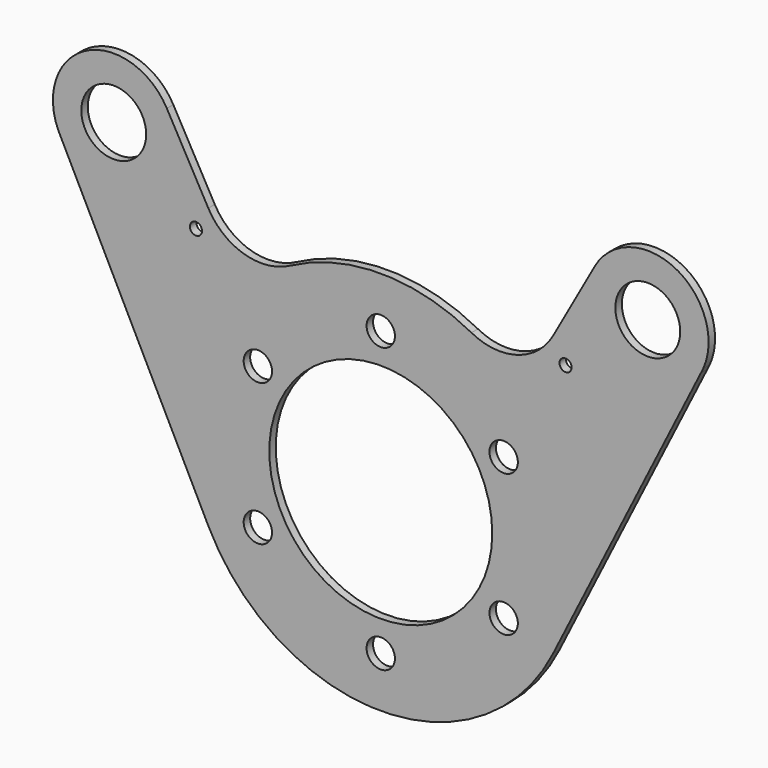
from build123d import *

# Parameters (mm, degrees)
F2_R     = 3.5
F2_R_2   = 27.5
F2_R_3   = 1.5
F2_R_4   = 8
F3_DEPTH = 2


with BuildPart() as f3:
    # F2 (on Front) → F3 (new body)
    with BuildSketch(Plane.XZ):
        with BuildLine():
            Line((-42.53072, 47.831513), (-52.759336, 66.173364))
            ThreePointArc((-52.759336, 66.173364), (-72.578902, 72.278632), (-79.555119, 52.748606))
            Line((-79.555119, 52.748606), (-78.960552, 51.561851))
            Line((-78.960552, 51.561851), (-42.468246, -21.276702))
            ThreePointArc((-42.468246, -21.276702), (0, -47.5), (42.468246, -21.276702))
            Line((42.468246, -21.276702), (78.960552, 51.561851))
            Line((78.960552, 51.561851), (79.555119, 52.748606))
            ThreePointArc((79.555119, 52.748606), (72.578902, 72.278632), (52.759336, 66.173364))
            Line((52.759336, 66.173364), (42.53072, 47.831513))
            ThreePointArc((42.53072, 47.831513), (33.660405, 40.74614), (22.366885, 41.904325))
            ThreePointArc((22.366885, 41.904325), (0, 47.5), (-22.366885, 41.904325))
            ThreePointArc((-22.366885, 41.904325), (-33.660405, 40.74614), (-42.53072, 47.831513))
        make_face()
        with Locations((-30.310889, -17.5)):
            Circle(F2_R, mode=Mode.SUBTRACT)
        with Locations((0, -35)):
            Circle(F2_R, mode=Mode.SUBTRACT)
        with Locations((30.310889, -17.5)):
            Circle(F2_R, mode=Mode.SUBTRACT)
        Circle(F2_R_2, mode=Mode.SUBTRACT)
        with Locations((-45.577269, 42.382158)):
            Circle(F2_R_3, mode=Mode.SUBTRACT)
        with Locations((-30.310889, 17.5)):
            Circle(F2_R, mode=Mode.SUBTRACT)
        with Locations((-65.859944, 58.867607)):
            Circle(F2_R_4, mode=Mode.SUBTRACT)
        with Locations((30.310889, 17.5)):
            Circle(F2_R, mode=Mode.SUBTRACT)
        with Locations((0, 35)):
            Circle(F2_R, mode=Mode.SUBTRACT)
        with Locations((45.577269, 42.382158)):
            Circle(F2_R_3, mode=Mode.SUBTRACT)
        with Locations((65.859944, 58.867607)):
            Circle(F2_R_4, mode=Mode.SUBTRACT)
    extrude(amount=-F3_DEPTH)


solid = f3.part
